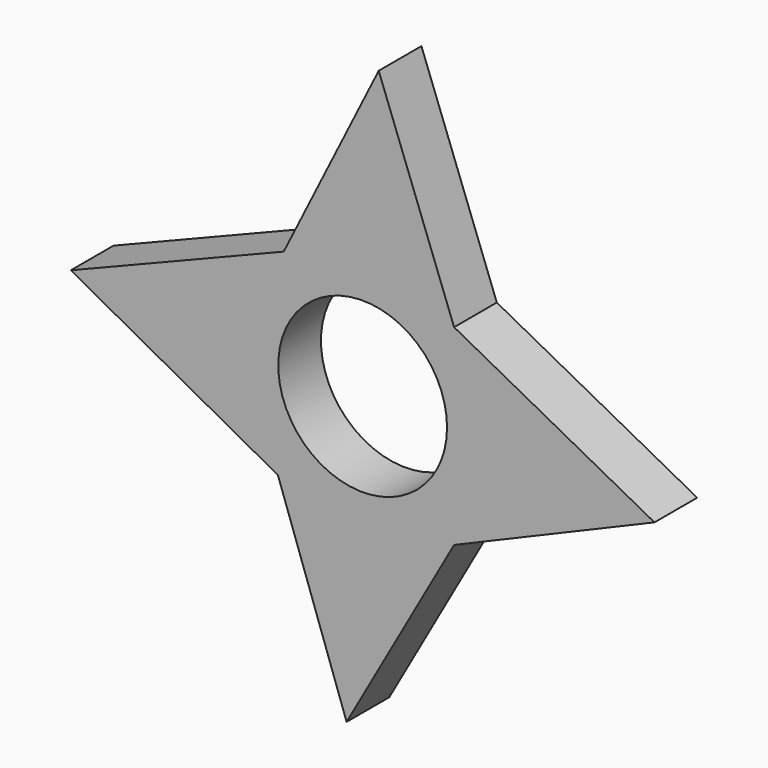
from build123d import *

# Parameters (mm, degrees)
F0_R     = 11
F1_DEPTH = 6.96
F2_DEPTH = 6.96


with BuildPart() as f1:
    # F0 (on Front) → F1 (new body)
    with BuildSketch(Plane.XZ):
        Circle(F0_R)
        with BuildLine():
            ThreePointArc((-0.086483, 0.004757), (-0.057789, 0.064517), (0.004757, 0.086483))
            Line((0.004757, 0.086483), (0.002379, 0.043242))
            ThreePointArc((0.002379, 0.043242), (0.031452, 0.02977), (0.043307, 0))
            ThreePointArc((0.043307, 0), (0.043291, -0.00119), (0.043242, -0.002379))
            ThreePointArc((0.043242, -0.002379), (0.028895, -0.032258), (-0.002379, -0.043242))
            ThreePointArc((-0.002379, -0.043242), (-0.032258, -0.028895), (-0.043242, 0.002379))
            Line((-0.043242, 0.002379), (-0.086483, 0.004757))
        make_face(mode=Mode.SUBTRACT)
        Polygon((11.922232, 11.811606), (2.092604, 38.042489), (-10.284935, 13.26174), (-38.042489, 2.092604), (-11.041482, -12.638802), (-2.092604, -38.042489), (11.922232, -13.172698), (38.042489, -2.092604), align=None)
        Circle(F0_R, mode=Mode.SUBTRACT)
    extrude(amount=F1_DEPTH)

    # F0 (on Front) → F2 (join)
    with BuildSketch(Plane.XZ):
        Circle(F0_R)
        with BuildLine():
            ThreePointArc((-0.086483, 0.004757), (-0.057789, 0.064517), (0.004757, 0.086483))
            Line((0.004757, 0.086483), (0.002379, 0.043242))
            ThreePointArc((0.002379, 0.043242), (0.031452, 0.02977), (0.043307, 0))
            ThreePointArc((0.043307, 0), (0.043291, -0.00119), (0.043242, -0.002379))
            ThreePointArc((0.043242, -0.002379), (0.028895, -0.032258), (-0.002379, -0.043242))
            ThreePointArc((-0.002379, -0.043242), (-0.032258, -0.028895), (-0.043242, 0.002379))
            Line((-0.043242, 0.002379), (-0.086483, 0.004757))
        make_face(mode=Mode.SUBTRACT)
        Polygon((11.922232, 11.811606), (2.092604, 38.042489), (-10.284935, 13.26174), (-38.042489, 2.092604), (-11.041482, -12.638802), (-2.092604, -38.042489), (11.922232, -13.172698), (38.042489, -2.092604), align=None)
        Circle(F0_R, mode=Mode.SUBTRACT)
    extrude(amount=F2_DEPTH)


solid = f1.part
